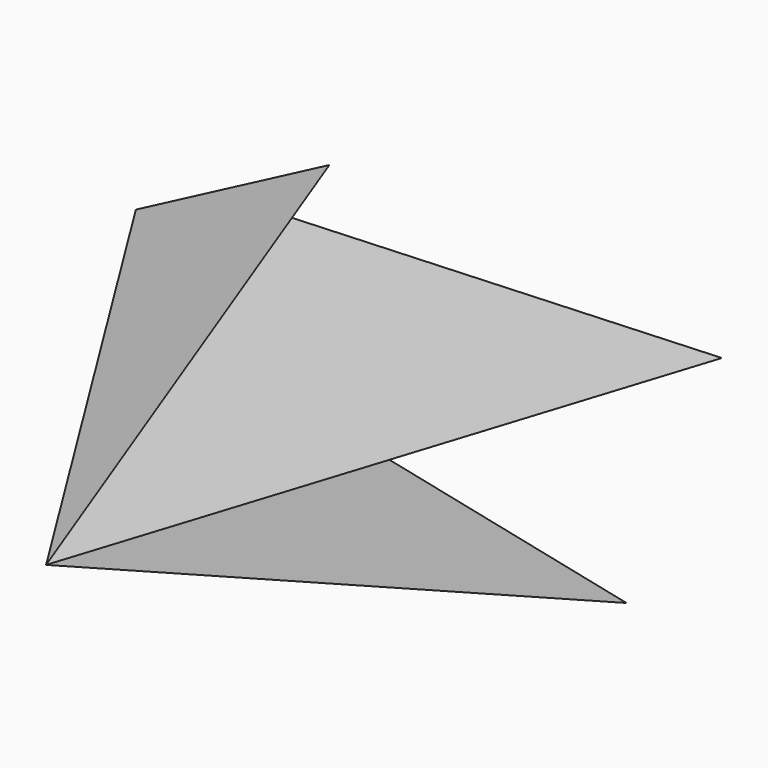
from build123d import *


with BuildPart() as f3:
    # F0 (on Front) → F3 section 0
    with BuildSketch(Plane.XZ, mode=Mode.PRIVATE) as f3_s0:
        Polygon((-35.573773, 14.20082), (-20.368854, 26.82377), (-61.106563, 5.307377), (-57.950821, -33.995904), (42.172134, -33.995904), (-35.573773, -17.930329), (62.254101, 17.930329), align=None)
    loft([f3_s0.sketch, Vertex(0, -100, 0)])


solid = f3.part
